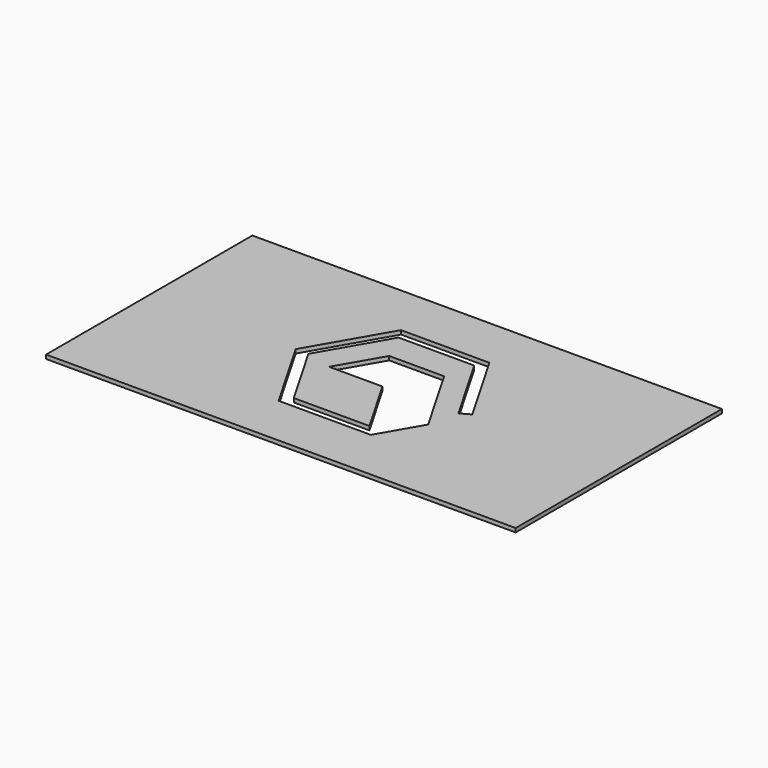
from build123d import *

# Parameters (mm, degrees)
F0_W     = 189.70625
F0_H     = 104.14
F1_DEPTH = 1.5875


with BuildPart() as f1:
    # F0 (on Top) → F1 (new body)
    with BuildSketch(Plane.XY):
        with Locations((19.910408, 0)):
            Rectangle(F0_W, F0_H)
        Polygon((39.326261, -30.907491), (2.06596, -30.907491), (-15.778488, 0), (2.06596, 30.907491), (37.754856, 30.907491), (55.599304, 0), (51.749821, -2.2225), (35.188534, 26.462491), (4.632282, 26.462491), (-10.645844, 0), (4.632282, -26.462491), (35.188534, -26.462491), (21.541312, -2.824809), (0, -2.824809), (10.168214, 14.787054), (32.367857, 14.787054), (49.037938, -14.086373), align=None, mode=Mode.SUBTRACT)
    extrude(amount=F1_DEPTH)


solid = f1.part
